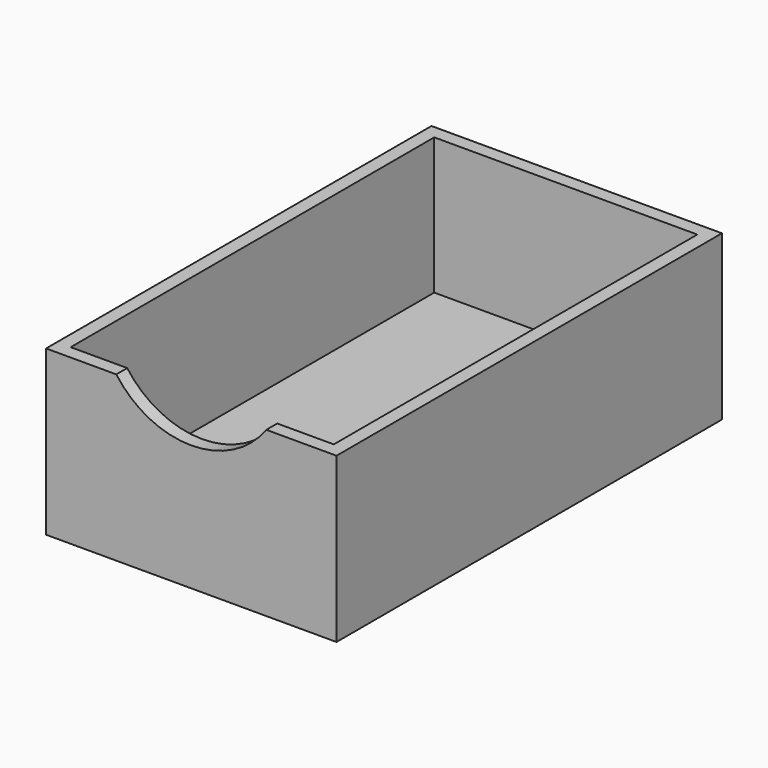
from build123d import *

# Parameters (mm, degrees)
F0_W          = 244.475
F0_H          = 422.275
F1_DEPTH      = 6.35
F0_W_2        = 269.875
F0_H_2        = 447.675
F2_DEPTH      = 127
F2_DEPTH_BACK = 25.4
F3_W          = 76.2
F3_H          = 422.275
F4_DEPTH      = 19.05
F6_DEPTH      = 25.4


with BuildPart() as f1:
    # F0 (on Top) → F1 (new body)
    with BuildSketch(Plane.XY):
        with Locations((-122.2375, -211.1375)):
            Rectangle(F0_W, F0_H)
    extrude(amount=-F1_DEPTH)

    # F0 (on Top) → F2 (join, two sides)
    with BuildSketch(Plane.XY) as f2_sk:
        with Locations((-122.2375, -211.1375)):
            Rectangle(F0_W_2, F0_H_2)
        with Locations((-122.2375, -211.1375)):
            Rectangle(F0_W, F0_H, mode=Mode.SUBTRACT)
    extrude(amount=F2_DEPTH)
    extrude(f2_sk.sketch, amount=-F2_DEPTH_BACK)

    # F3 (on face) → F4 (join, through all)
    with BuildSketch(Plane(origin=(0, 0, -6.35), x_dir=(1, 0, 0), z_dir=(0, 0, -1))):
        with Locations((-130.175, 211.1375)):
            Rectangle(F3_W, F3_H)
    extrude(amount=F4_DEPTH)

    # F5 (on face) → F6 (cut)
    with BuildSketch(Plane.XZ.offset(434.975)):
        with BuildLine():
            Line((-38.1, 158.75), (-206.375, 158.75))
            ThreePointArc((-206.375, 158.75), (-200.788921, 142.139157), (-191.961107, 127))
            Line((-191.961107, 127), (-52.513893, 127))
            ThreePointArc((-52.513893, 127), (-43.686079, 142.139157), (-38.1, 158.75))
        make_face()
        with BuildLine():
            Line((-52.513893, 127), (-191.961107, 127))
            ThreePointArc((-191.961107, 127), (-122.2375, 91.532849), (-52.513893, 127))
        make_face()
    extrude(amount=-F6_DEPTH, mode=Mode.SUBTRACT)


solid = f1.part
